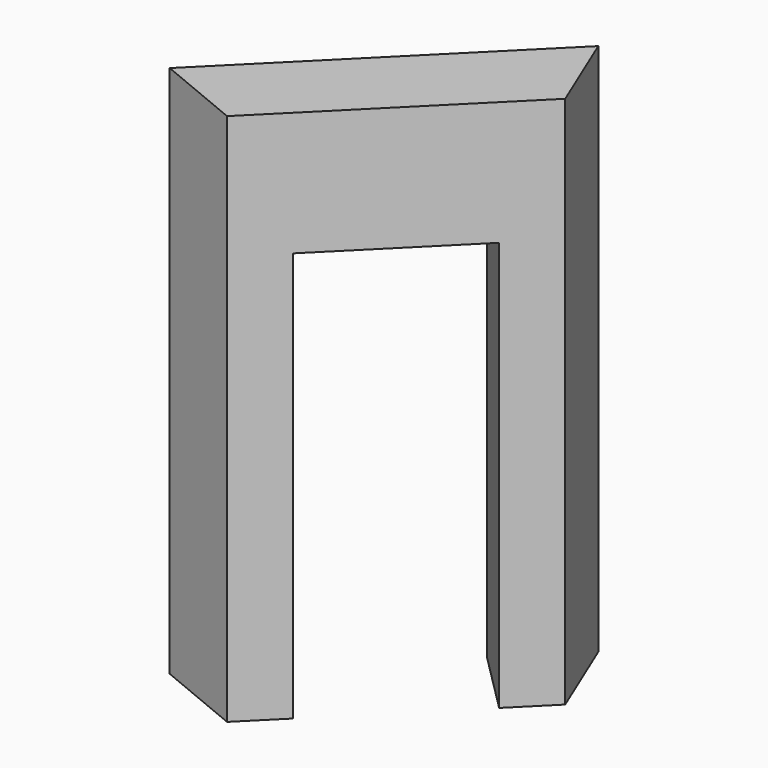
from build123d import *

# Parameters (mm, degrees)
F1_DEPTH = 2800
F2_W     = 850
F2_H     = 2150
F3_DEPTH = 1333.884476


with BuildPart() as f1:
    # F0 (on Top) → F1 (new body)
    with BuildSketch(Plane.XY):
        Polygon((1250, 2000), (0, 750), (450, 563.603897), (1436.396103, 1550), align=None)
    extrude(amount=F1_DEPTH)

    # F2 (on face) → F3 (cut, through all)
    with BuildSketch(Plane(origin=(-56.801948, 56.801948, 0), x_dir=(0.707107, 0.707107, 0), z_dir=(0.707107, -0.707107, 0))):
        with Locations((1414.213562, 1075)):
            Rectangle(F2_W, F2_H)
    extrude(amount=-F3_DEPTH, mode=Mode.SUBTRACT)


solid = f1.part
